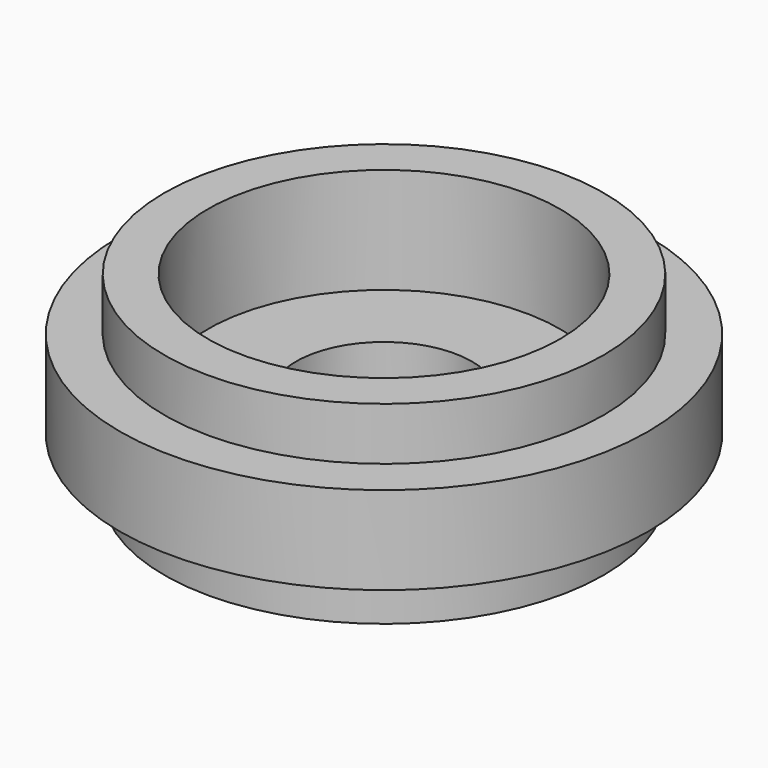
from build123d import *

# Parameters (mm, degrees)
F0_R     = 24.95
F1_DEPTH = 6
F2_R     = 30
F3_DEPTH = 10
F4_R     = 24.95
F5_DEPTH = 6
F6_R     = 20
F7_DEPTH = 22.001
F8_R     = 24.95
F8_R_2   = 10
F9_DEPTH = 10


with BuildPart() as f1:
    # F0 (on Top) → F1 (new body)
    with BuildSketch(Plane.XY):
        Circle(F0_R)
    extrude(amount=F1_DEPTH)

    # F2 (on face) → F3 (join)
    with BuildSketch(Plane.XY.offset(6)):
        Circle(F2_R)
    extrude(amount=F3_DEPTH)

    # F4 (on face) → F5 (join)
    with BuildSketch(Plane.XY.offset(16)):
        Circle(F4_R)
    extrude(amount=F5_DEPTH)

    # F6 (on face) → F7 (cut, through all)
    with BuildSketch(Plane.XY.offset(22)):
        Circle(F6_R)
    extrude(amount=-F7_DEPTH, mode=Mode.SUBTRACT)

    # F8 (on face) → F9 (join)
    with BuildSketch(Plane(origin=(0, 0, 0), x_dir=(1, 0, 0), z_dir=(0, 0, -1))):
        Circle(F8_R)
        Circle(F8_R_2, mode=Mode.SUBTRACT)
    extrude(amount=-F9_DEPTH)


solid = f1.part
